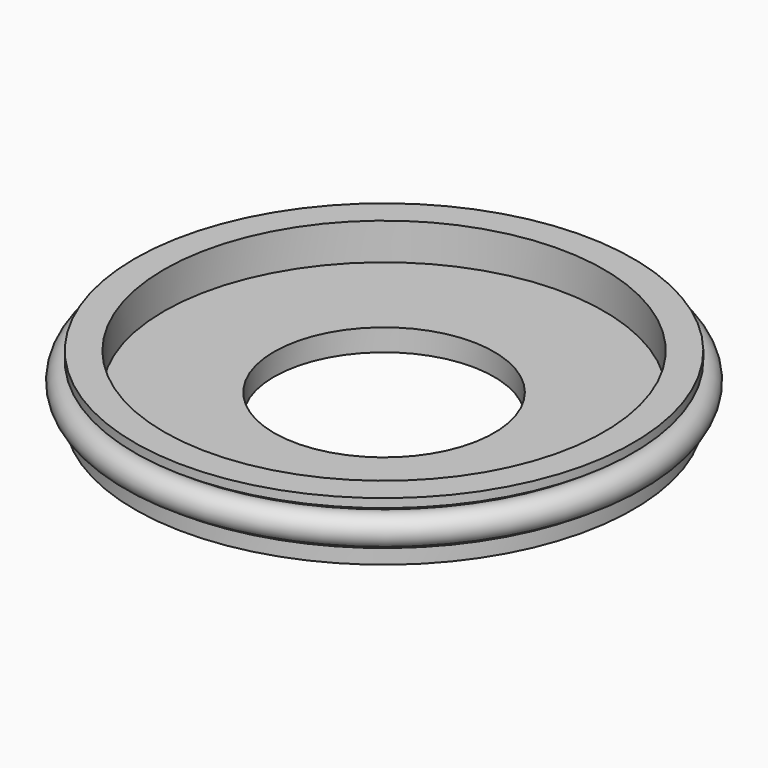
from build123d import *

# Parameters (mm, degrees)
F0_R = 1


with BuildPart() as f1:
    # F0 (on Front) → F1 (revolve)
    with BuildSketch(Plane.XZ):
        with BuildLine():
            Line((-15, 4), (-17, 4))
            Line((-17, 4), (-17, 3.4))
            Line((-17, 3.4), (-16.5, 3.4))
            ThreePointArc((-16.5, 3.4), (-16.146447, 3.253553), (-16, 2.9))
            Line((-16, 2.9), (-16, 2.2))
            Line((-16, 2.2), (-16, 1.5))
            ThreePointArc((-16, 1.5), (-16.146447, 1.146447), (-16.5, 1))
            Line((-16.5, 1), (-17, 1))
            Line((-17, 1), (-17, 0))
            Line((-17, 0), (-15, 0))
            Line((-15, 0), (-7.5, 0))
            Line((-7.5, 0), (-7.5, 1.5))
            Line((-7.5, 1.5), (-15, 1.5))
            Line((-15, 1.5), (-15, 4))
        make_face()
        with Locations((-17, 2.2)):
            Circle(F0_R)
    revolve(axis=Axis((0, 0, 0.070755), (0, 0, -1)))


solid = f1.part
